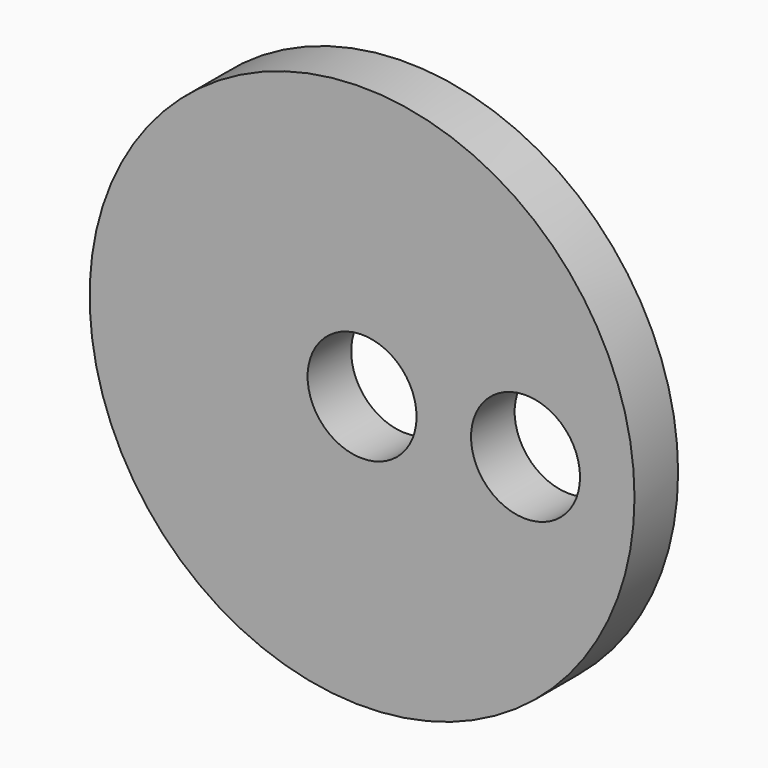
from build123d import *

# Parameters (mm, degrees)
F0_R     = 15.875
F0_R_2   = 3.175
F1_DEPTH = 3.175


with BuildPart() as f1:
    # F0 (on Front) → F1 (new body)
    with BuildSketch(Plane.XZ):
        Circle(F0_R)
        Circle(F0_R_2, mode=Mode.SUBTRACT)
        with Locations((9.525, 0)):
            Circle(F0_R_2, mode=Mode.SUBTRACT)
    extrude(amount=F1_DEPTH)


solid = f1.part
